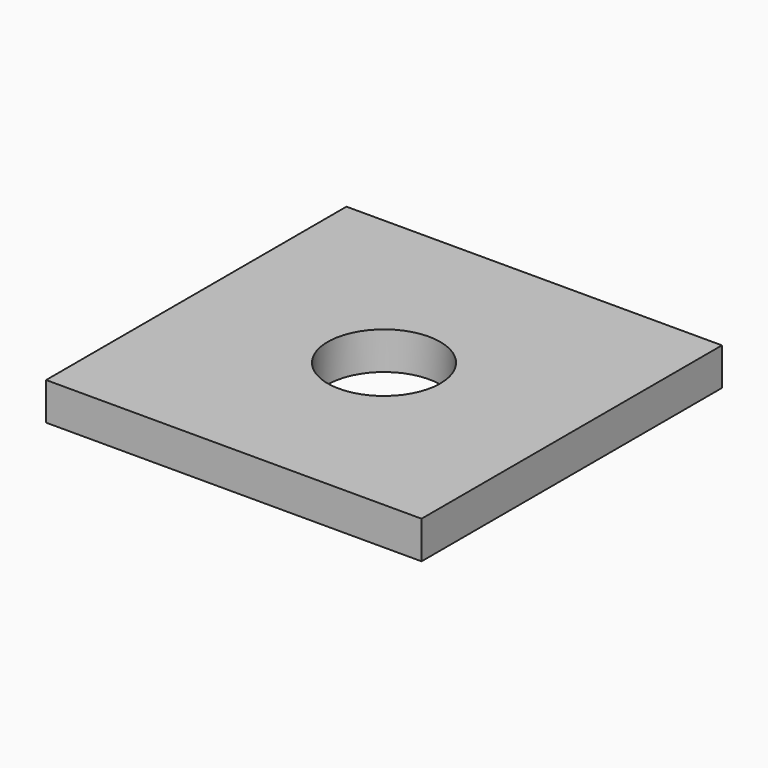
from build123d import *

# Parameters (mm, degrees)
SKETCH_W      = 40
SKETCH_H      = 40
SKETCH_R      = 6
EXTRUDE_DEPTH = 4


with BuildPart() as part:
    # Sketch → Extrude (new body)
    with BuildSketch(Plane.XY):
        Rectangle(SKETCH_W, SKETCH_H)
        Circle(SKETCH_R, mode=Mode.SUBTRACT)
    extrude(amount=EXTRUDE_DEPTH)


solid = part.part
